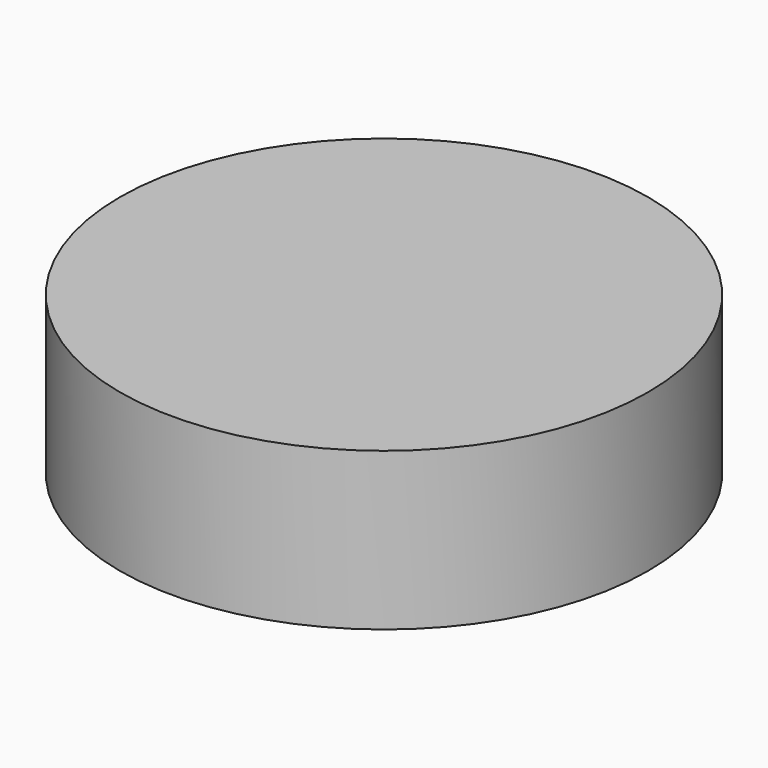
from build123d import *

# Parameters (mm, degrees)
SKETCH_1_R  = 45
PAD_1_DEPTH = 26.8


with BuildPart() as part:
    # Sketch_1 → Pad_1 (new body)
    with BuildSketch(Plane.XY):
        Circle(SKETCH_1_R)
    extrude(amount=PAD_1_DEPTH)


solid = part.part
